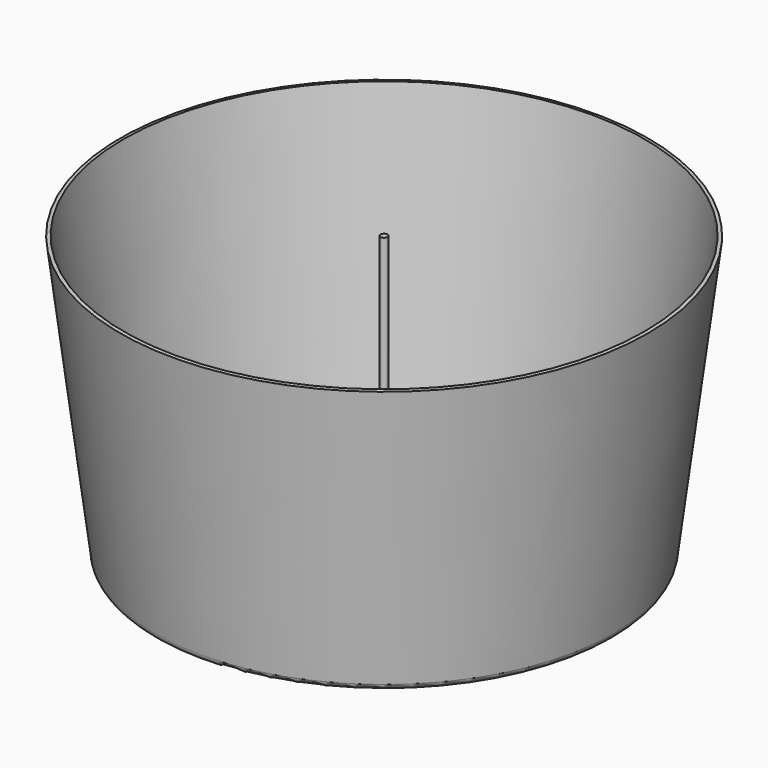
from build123d import *


with BuildPart() as f1:
    # F0 (on Front) → F1 (revolve)
    with BuildSketch(Plane.XZ):
        with BuildLine():
            Line((0, 203.210115), (0, 0))
            Line((0, 0), (160.727553, 0))
            ThreePointArc((160.727553, 0), (164.005472, 1.239854), (165.642309, 4.338686))
            Line((165.642309, 4.338686), (190.5, 203.210115))
            Line((190.5, 203.210115), (187.979612, 203.525148))
            Line((187.979612, 203.525148), (163.233164, 5.543706))
            ThreePointArc((163.233164, 5.543706), (162.099969, 3.39836), (159.83064, 2.54))
            Line((159.83064, 2.54), (5.969, 2.54))
            ThreePointArc((5.969, 2.54), (3.544331, 3.544331), (2.54, 5.969))
            Line((2.54, 5.969), (2.54, 203.210115))
            Line((2.54, 203.210115), (0, 203.210115))
        make_face()
    revolve(axis=Axis((0, 0, 101.605058), (0, 0, 1)))


solid = f1.part
